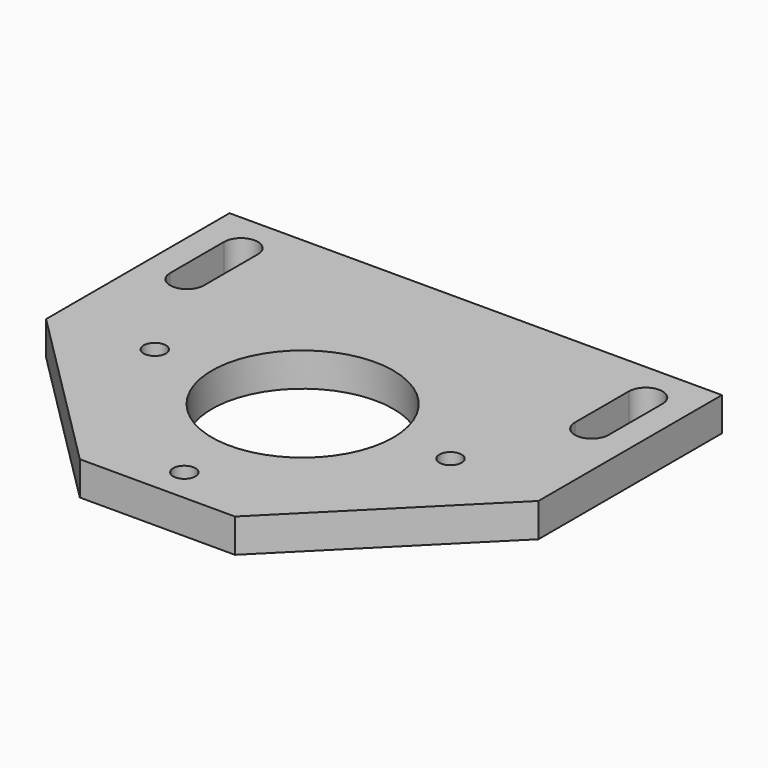
from build123d import *

# Parameters (mm, degrees)
F0_W     = 73
F0_H     = 59
F1_DEPTH = 5
F2_SIZE  = 25
F4_D     = 3.3
F4_DEPTH = 13.8
F4_TIP   = 0.9914200214
F3_R     = 13.4455987062
F5_DEPTH = 5


with BuildPart() as f1:
    # F0 (on Top) → F1 (new body)
    with BuildSketch(Plane.XY):
        Rectangle(F0_W, F0_H)
        with BuildLine():
            Line((-32.5, 13.5), (-32.5, 23.5))
            ThreePointArc((-32.5, 23.5), (-30, 26), (-27.5, 23.5))
            Line((-27.5, 23.5), (-27.5, 13.5))
            ThreePointArc((-27.5, 13.5), (-30, 11), (-32.5, 13.5))
        make_face(mode=Mode.SUBTRACT)
        with BuildLine():
            Line((27.5, 13.5), (27.5, 23.5))
            ThreePointArc((27.5, 23.5), (30, 26), (32.5, 23.5))
            Line((32.5, 23.5), (32.5, 13.5))
            ThreePointArc((32.5, 13.5), (30, 11), (27.5, 13.5))
        make_face(mode=Mode.SUBTRACT)
    extrude(amount=F1_DEPTH)

    # F2
    f2_edges = [f1.edges().sort_by_distance(p)[0] for p in [
        (-36.5, -29.5, 2.5),
        (36.5, -29.5, 2.5),
    ]]
    chamfer(f2_edges, length=F2_SIZE)

    # F4
    with Locations(Plane.XY.offset(5)):
        with Locations((-21.9203102168, -2.5796897832), (0, -24.5), (21.9203102168, -2.5796897832)):
            Hole(F4_D / 2, depth=F4_DEPTH)
            with Locations((0, 0, -(F4_DEPTH + F4_TIP / 2))):  # 118° drill point
                Cone(0, F4_D / 2, F4_TIP, mode=Mode.SUBTRACT)

    # F3 (on face) → F5 (cut, through all)
    with BuildSketch(Plane.XY.offset(5)):
        with Locations((0, -2.5796897832)):
            Circle(F3_R)
    extrude(amount=-F5_DEPTH, mode=Mode.SUBTRACT)


solid = f1.part
